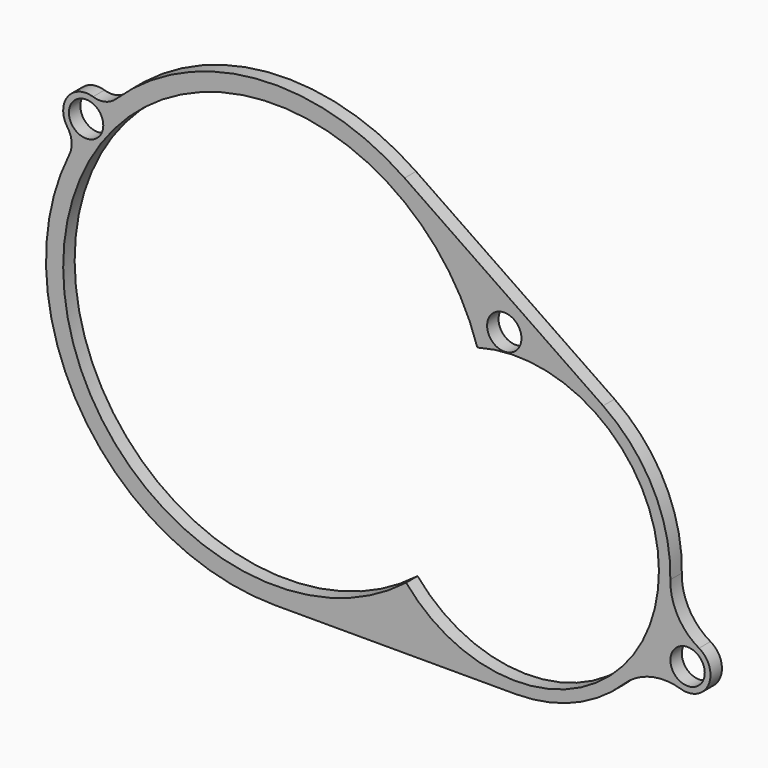
from build123d import *

# Parameters (mm, degrees)
F0_R     = 30
F1_DEPTH = 25


with BuildPart() as f1:
    # F0 (on Front) → F1 (new body)
    with BuildSketch(Plane.XZ):
        with BuildLine():
            ThreePointArc((-362.569757, 216.779084), (-355.273719, 196.83206), (-359.21774, 175.961971))
            ThreePointArc((-359.21774, 175.961971), (-339.40005, -211.678071), (0, -400))
            Line((0, -400), (420, -400))
            ThreePointArc((420, -400), (522.212386, -379.905238), (609.21045, -322.61206))
            ThreePointArc((609.21045, -322.61206), (655.448706, -296.833079), (708.368113, -298.271389))
            ThreePointArc((708.368113, -298.271389), (756.702225, -275.904298), (739.970789, -225.342135))
            ThreePointArc((739.970789, -225.342135), (702.734149, -187.712825), (689.925394, -136.346805))
            ThreePointArc((689.925394, -136.346805), (660.297364, -6.885514), (572.529747, 92.788412))
            Line((572.529747, 92.788412), (225.969995, 330.056906))
            ThreePointArc((225.969995, 330.056906), (-33.631094, 398.583679), (-278.079557, 287.526972))
            ThreePointArc((-278.079557, 287.526972), (-296.71916, 277.344579), (-317.943757, 278.139835))
            ThreePointArc((-317.943757, 278.139835), (-362.349443, 263.526868), (-362.569757, 216.779084))
        make_face()
        with BuildLine():
            ThreePointArc((228.652554, -290.891749), (-353.45578, 109.402979), (353.002904, 110.855536))
            ThreePointArc((353.002904, 110.855536), (658.821473, -203.920932), (228.652554, -290.891749))
        make_face(mode=Mode.SUBTRACT)
        with Locations((720, -260)):
            Circle(F0_R, mode=Mode.SUBTRACT)
        with Locations((-330, 240)):
            Circle(F0_R, mode=Mode.SUBTRACT)
        with Locations((400, 150)):
            Circle(F0_R, mode=Mode.SUBTRACT)
    extrude(amount=F1_DEPTH)


solid = f1.part
